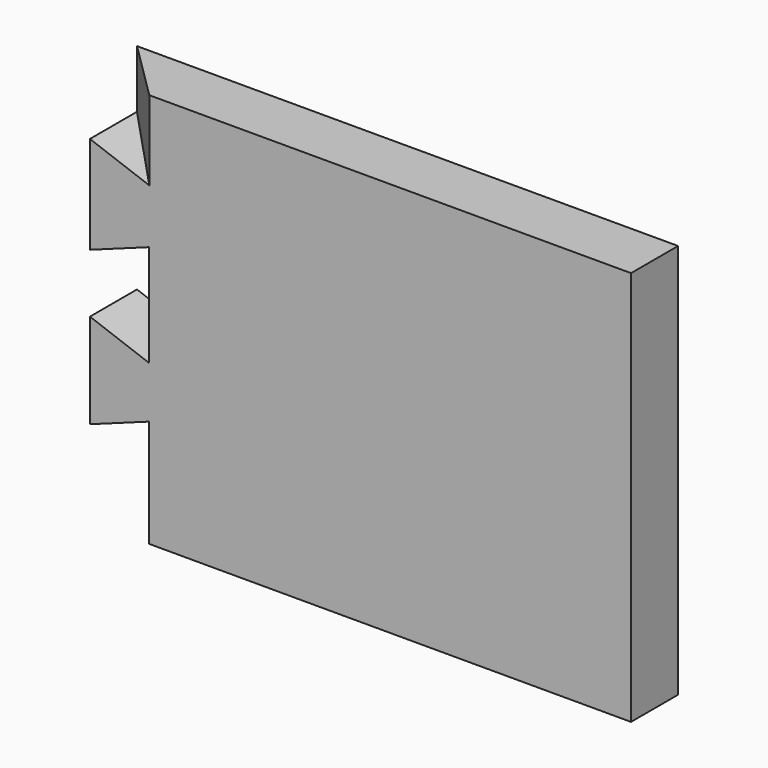
from build123d import *

# Parameters (mm, degrees)
F1_DEPTH = 10


with BuildPart() as f1:
    # F0 (on Front) → F1 (new body)
    with BuildSketch(Plane.XZ):
        Polygon((29.636398112, 36.8677949456), (-52.2277431715, 36.8677949456), (-52.2277431715, 23.3735684186), (-62.3148535555, 27.0449763481), (-62.3148535555, 10.4596049677), (-52.3148535555, 14.0993073104), (-52.3148535555, -3.1801008082), (-62.3148535555, 0.4596015345), (-62.3148535555, -15.6379641769), (-52.3148535555, -11.9982618343), (-52.3148535555, -30.2721151705), (29.636398112, -30.2721151705), align=None)
    extrude(amount=F1_DEPTH)

    # F2 (on face) → F4 (join, up to the next surface of F1)
    with BuildSketch(Plane.XY.offset(36.8677949456)):
        Polygon((-52.2277431715, -10), (-52.2277431715, 0), (-62.3148535555, 0), align=None)
    extrude(until=Until.NEXT, dir=(0, 0, -1))


solid = f1.part
